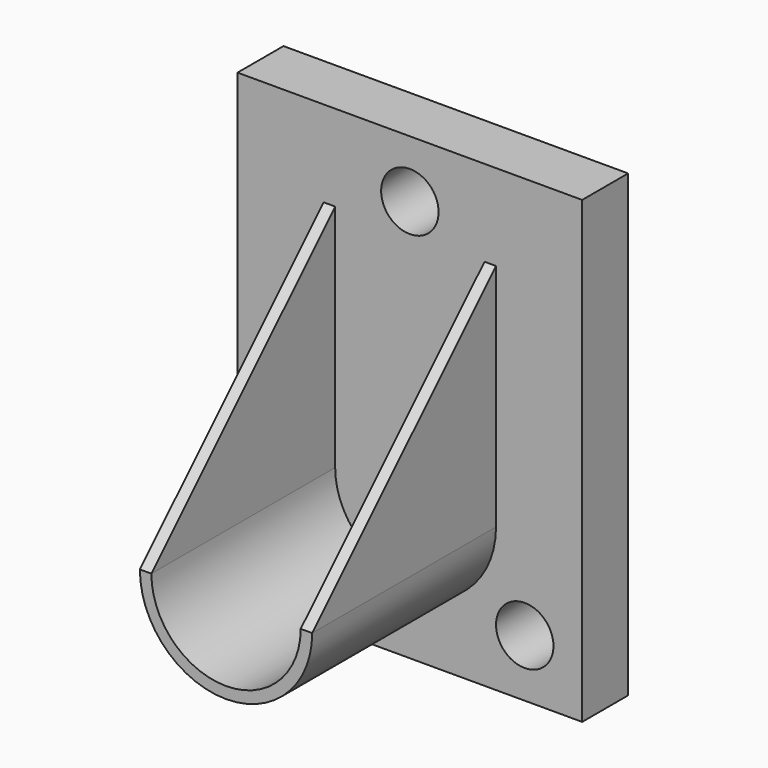
from build123d import *

# Parameters (mm, degrees)
F0_W      = 150
F0_H      = 200
F0_R      = 12.5
F1_DEPTH  = 25
F3_DEPTH  = 100
F4_W      = 5
F4_H      = 100
F5_DEPTH  = 100
F7_DEPTH  = 25
F8_W      = 5
F8_H      = 100
F9_DEPTH  = 100
F11_DEPTH = 25


with BuildPart() as f1:
    # F0 (on Front) → F1 (new body)
    with BuildSketch(Plane.XZ):
        with Locations((75, -100)):
            Rectangle(F0_W, F0_H)
        with Locations((25, -175)):
            Circle(F0_R, mode=Mode.SUBTRACT)
        with Locations((125, -175)):
            Circle(F0_R, mode=Mode.SUBTRACT)
        with Locations((75, -25)):
            Circle(F0_R, mode=Mode.SUBTRACT)
    extrude(amount=F1_DEPTH)

    # F2 (on face) → F3 (join)
    with BuildSketch(Plane.XZ.offset(25)):
        with BuildLine():
            Line((42.5, -137.5), (37.5, -137.5))
            ThreePointArc((37.5, -137.5), (75, -175), (112.5, -137.5))
            Line((112.5, -137.5), (107.5, -137.5))
            ThreePointArc((107.5, -137.5), (75, -170), (42.5, -137.5))
        make_face()
    extrude(amount=F3_DEPTH)

    # F4 (on face) → F5 (join)
    with BuildSketch(Plane.XY.offset(-137.5)):
        with Locations((110, -75)):
            Rectangle(F4_W, F4_H)
    extrude(amount=F5_DEPTH)

    # F6 (on face) → F7 (cut)
    with BuildSketch(Plane.YZ.offset(112.5)):
        Polygon((-125, -37.5), (-125, -137.5), (-25, -37.5), align=None)
    extrude(amount=-F7_DEPTH, mode=Mode.SUBTRACT)

    # F8 (on face) → F9 (join)
    with BuildSketch(Plane.XY.offset(-137.5)):
        with Locations((40, -75)):
            Rectangle(F8_W, F8_H)
    extrude(amount=F9_DEPTH)

    # F10 (on face) → F11 (cut)
    with BuildSketch(Plane.YZ.offset(42.5)):
        Polygon((-125, -37.5), (-125, -137.5), (-25, -37.5), align=None)
    extrude(amount=-F11_DEPTH, mode=Mode.SUBTRACT)


solid = f1.part
